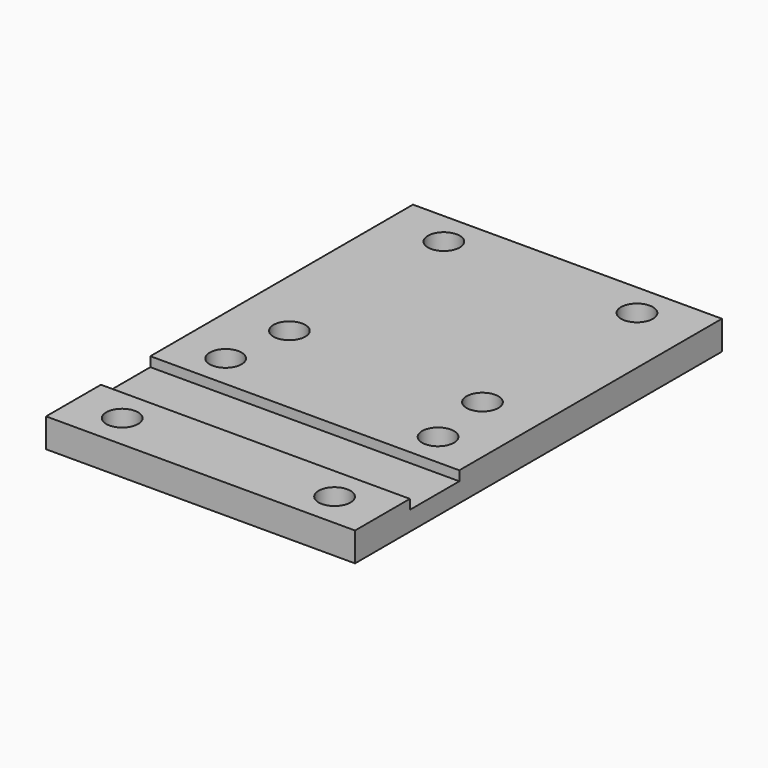
from build123d import *

# Parameters (mm, degrees)
SKETCH_W     = 32
SKETCH_H     = 47.5
SKETCH_R     = 1.65
PAD_DEPTH    = 3
SKETCH001_W  = 61.411388
SKETCH001_H  = 6.4
POCKET_DEPTH = 1


with BuildPart() as part:
    # Sketch → Pad (new body)
    with BuildSketch(Plane.XY):
        with Locations((0, -10.25)):
            Rectangle(SKETCH_W, SKETCH_H)
        with Locations((-10, -10)):
            Circle(SKETCH_R, mode=Mode.SUBTRACT)
        with Locations((-10, 10)):
            Circle(SKETCH_R, mode=Mode.SUBTRACT)
        with Locations((10, 10)):
            Circle(SKETCH_R, mode=Mode.SUBTRACT)
        with Locations((10, -10)):
            Circle(SKETCH_R, mode=Mode.SUBTRACT)
        with Locations((-11, -17)):
            Circle(SKETCH_R, mode=Mode.SUBTRACT)
        with Locations((11, -17)):
            Circle(SKETCH_R, mode=Mode.SUBTRACT)
        with Locations((-11, -30.4)):
            Circle(SKETCH_R, mode=Mode.SUBTRACT)
        with Locations((11, -30.4)):
            Circle(SKETCH_R, mode=Mode.SUBTRACT)
    extrude(amount=PAD_DEPTH)

    # Sketch001 (on Face14 of Pad) → Pocket (cut)
    with BuildSketch(Plane.XY.offset(3)):
        with Locations((0.476776, -23.7)):
            Rectangle(SKETCH001_W, SKETCH001_H)
    extrude(amount=-POCKET_DEPTH, mode=Mode.SUBTRACT)


solid = part.part
